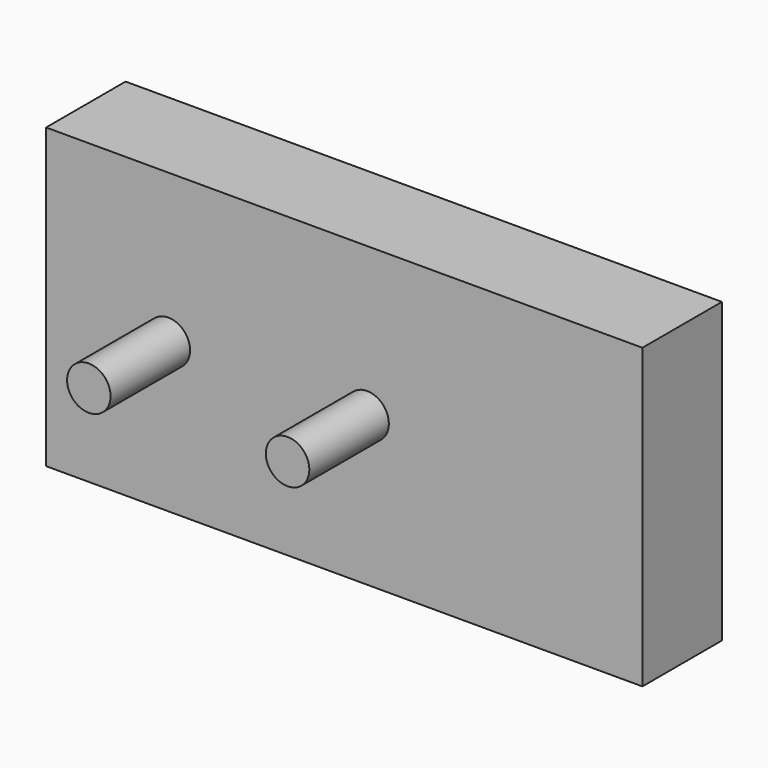
from build123d import *

# Parameters (mm, degrees)
F0_W     = 152.4
F0_H     = 76.2
F1_DEPTH = 25.4
F2_R     = 5.55625
F3_DEPTH = 50.8


with BuildPart() as f1:
    # F0 (on Front) → F1 (new body)
    with BuildSketch(Plane.XZ):
        with Locations((76.2, 38.1)):
            Rectangle(F0_W, F0_H)
    extrude(amount=F1_DEPTH)

    # F2 (on Front) → F3 (join)
    with BuildSketch(Plane.XZ):
        with Locations((31.241931, 38.037255)):
            Circle(F2_R)
        with Locations((82.041931, 38.037255)):
            Circle(F2_R)
    extrude(amount=F3_DEPTH)


solid = f1.part
